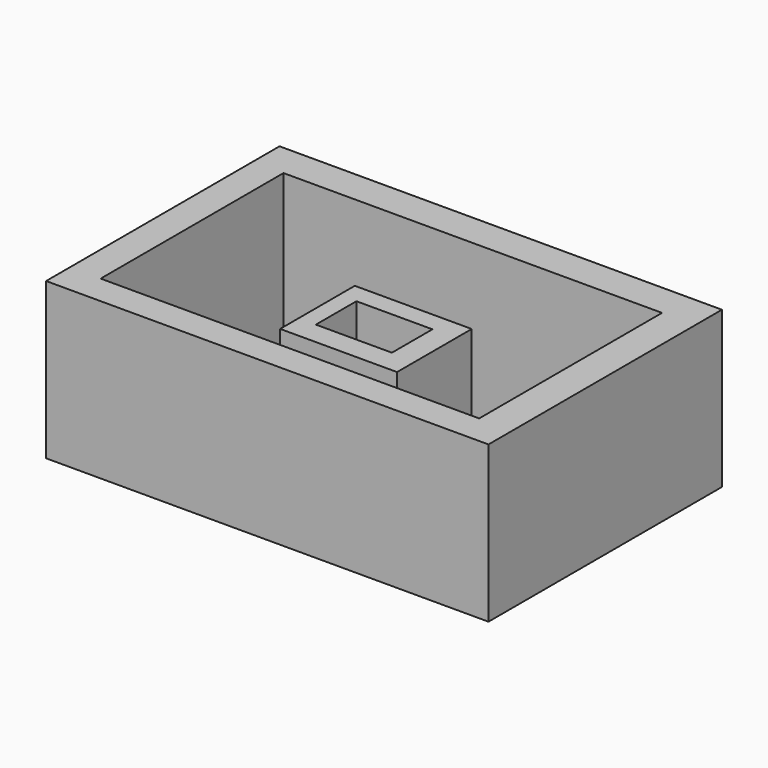
from build123d import *

# Parameters (mm, degrees)
F0_W     = 180
F0_H     = 118.717112
F0_W_2   = 154
F0_H_2   = 93
F1_DEPTH = 31.75
F0_W_3   = 47.564948
F0_H_3   = 37.970789
F0_W_4   = 30.92893
F0_H_4   = 20.619288
F2_DEPTH = 19.05


with BuildPart() as f1:
    # F0 (on Top) → F1 (new body, symmetric)
    with BuildSketch(Plane.XY):
        with Locations((3.996711, 0.592105)):
            Rectangle(F0_W, F0_H)
        with Locations((3.498949, -0.142959)):
            Rectangle(F0_W_2, F0_H_2, mode=Mode.SUBTRACT)
    extrude(amount=F1_DEPTH, both=True)


with BuildPart() as f2:
    # F0 (on Top) → F2 (new body, symmetric)
    with BuildSketch(Plane.XY):
        with Locations((1.18499, 0.00017)):
            Rectangle(F0_W_3, F0_H_3)
        with Locations((-0.103716, 0.70926)):
            Rectangle(F0_W_4, F0_H_4, mode=Mode.SUBTRACT)
    extrude(amount=F2_DEPTH, both=True)


solid = Compound([f1.part, f2.part])
